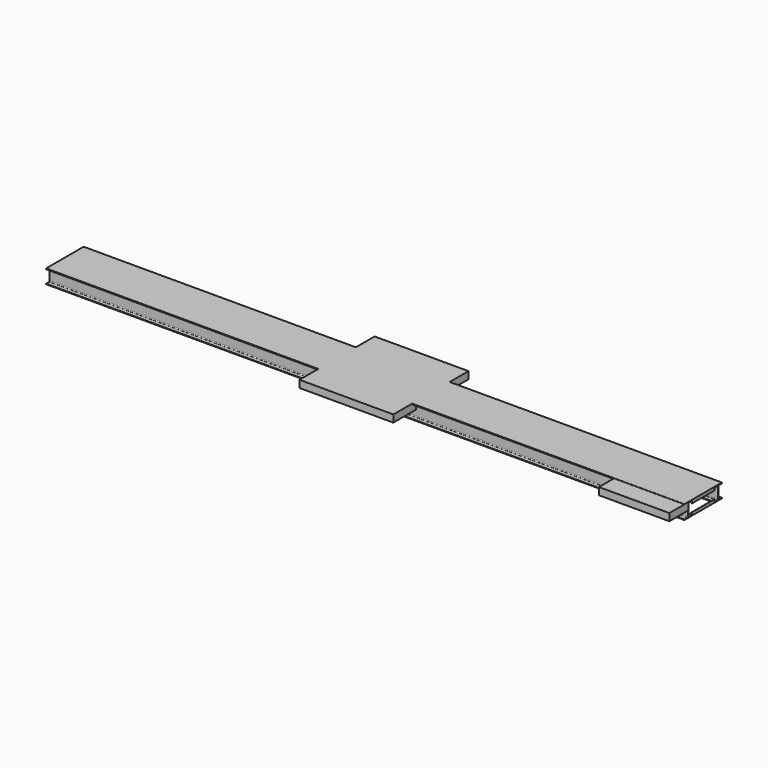
from build123d import *

# Parameters (mm, degrees)
EXTRUDE_DEPTH    = 6800
EXTRUDE002_DEPTH = 300
EXTRUDE001_DEPTH = 300
ARRAY_X_COUNT    = 3
ARRAY_X_PITCH    = 2000
EXTRUDE004_DEPTH = 300
ARRAY001_COUNT   = 2
SKETCH011_W      = 1500
SKETCH011_H      = 400
EXTRUDE008_DEPTH = 4.5
EXTRUDE003_DEPTH = 4.5


with BuildPart() as extrude_body:
    with BuildSketch(Plane(origin=(0, -400, 147), x_dir=(0, 1, 0), z_dir=(-1, 0, 0))):
        with BuildLine():
            Line((-100, 147), (-100, 135))
            Line((-100, 135), (-22, 135))
            ThreePointArc((-22, 135), (-9.272078, 129.727922), (-4, 117))
            Line((-4, 117), (-4, -117))
            ThreePointArc((-4, -117), (-9.272078, -129.727922), (-22, -135))
            Line((-22, -135), (-100, -135))
            Line((-100, -135), (-100, -147))
            Line((-100, -147), (100, -147))
            Line((100, -147), (100, -135))
            Line((100, -135), (22, -135))
            ThreePointArc((22, -135), (9.272078, -129.727922), (4, -117))
            Line((4, -117), (4, 117))
            ThreePointArc((4, 117), (9.272078, 129.727922), (22, 135))
            Line((22, 135), (100, 135))
            Line((100, 135), (100, 147))
            Line((100, 147), (-100, 147))
        make_face()
    extrude(amount=EXTRUDE_DEPTH, both=True)


with BuildPart() as extrude003:
    # AngleSteel → Extrude002 (new body, symmetric)
    with BuildSketch(Plane(origin=(-6781.901231, 0, 18.098769), x_dir=(1, 0, 0), z_dir=(0, 1, 0))):
        with BuildLine():
            Line((-18.098769, 18.098769), (-18.098769, -46.901231))
            Line((-18.098769, -46.901231), (-16.098769, -46.901231))
            ThreePointArc((-16.098769, -46.901231), (-13.270342, -45.729658), (-12.098769, -42.901231))
            Line((-12.098769, -42.901231), (-12.098769, 3.598769))
            ThreePointArc((-12.098769, 3.598769), (-9.609176, 9.609176), (-3.598769, 12.098769))
            Line((-3.598769, 12.098769), (42.901231, 12.098769))
            ThreePointArc((42.901231, 12.098769), (45.729658, 13.270342), (46.901231, 16.098769))
            Line((46.901231, 16.098769), (46.901231, 18.098769))
            Line((46.901231, 18.098769), (-18.098769, 18.098769))
        make_face()
    extrude(amount=EXTRUDE002_DEPTH, both=True)


with BuildPart() as array:
    # AngleSteel001 → Extrude001 (new body, symmetric)
    with BuildSketch(Plane(origin=(-6781.901231, 0, 275.901231), x_dir=(1, 0, 0), z_dir=(0, 1, 0))):
        with BuildLine():
            Line((-18.098769, -18.098769), (46.901231, -18.098769))
            Line((46.901231, -18.098769), (46.901231, -16.098769))
            ThreePointArc((46.901231, -16.098769), (45.729658, -13.270342), (42.901231, -12.098769))
            Line((42.901231, -12.098769), (-3.598769, -12.098769))
            ThreePointArc((-3.598769, -12.098769), (-9.609176, -9.609176), (-12.098769, -3.598769))
            Line((-12.098769, -3.598769), (-12.098769, 42.901231))
            ThreePointArc((-12.098769, 42.901231), (-13.270342, 45.729658), (-16.098769, 46.901231))
            Line((-16.098769, 46.901231), (-18.098769, 46.901231))
            Line((-18.098769, 46.901231), (-18.098769, -18.098769))
        make_face()
    extrude(amount=EXTRUDE001_DEPTH, both=True)

    # Compound: union Extrude003
    add(extrude003.part)

    # Array X: Array ×3


with BuildPart() as array_1:
    add(array.part)
    with Locations(*[(i * ARRAY_X_PITCH, 0, 0) for i in range(1, ARRAY_X_COUNT)]):
        add(array.part)


with BuildPart() as compound001:
    # Mirror: instance of Array
    add(array_1.part.mirror(Plane(origin=(0, 2000, 0), x_dir=(0, -1, 0), z_dir=(1, 0, 0))))

    # Compound001: union Array
    add(array_1.part)


with BuildPart() as sweep_body:
    # Sweep: sweep along a path in Sketch
    with BuildLine(Plane.XY) as sweep_path:
        Line((-1000, 1000), (-1000, -1000))
        Line((-1000, -1000), (1000, -1000))
        Line((1000, -1000), (1000, 1000))
        Line((1000, 1000), (-1000, 1000))
    # ChannelSteel → Sweep (sweep)
    with BuildSketch(Plane(origin=(-979.027946, 0, 75), x_dir=(1, 0, 0), z_dir=(0, 1, 0))):
        with BuildLine():
            Line((-20.972054, 75), (-20.972054, -75))
            Line((-20.972054, -75), (54.027946, -75))
            Line((54.027946, -75), (54.027946, -74.148564))
            ThreePointArc((54.027946, -74.148564), (52.714332, -70.770613), (49.463724, -69.167591))
            Line((49.463724, -69.167591), (-3.600497, -64.525073))
            ThreePointArc((-3.600497, -64.525073), (-11.223735, -61.903182), (-14.472054, -54.525073))
            Line((-14.472054, -54.525073), (-14.472054, 54.525073))
            ThreePointArc((-14.472054, 54.525073), (-11.223735, 61.903182), (-3.600497, 64.525073))
            Line((-3.600497, 64.525073), (49.463724, 69.167591))
            ThreePointArc((49.463724, 69.167591), (52.714332, 70.770613), (54.027946, 74.148564))
            Line((54.027946, 74.148564), (54.027946, 75))
            Line((54.027946, 75), (-20.972054, 75))
        make_face()
    sweep(path=sweep_path.line, is_frenet=True, transition=Transition.RIGHT)


with BuildPart() as sweep_body_1:
    # Sweep placement: moved
    add(sweep_body.part.moved(Location((0, 0, 144))))


with BuildPart() as extrude001:
    # Clone base: copy of Extrude body
    add(extrude_body.part)


with BuildPart() as extrude001_1:
    # Clone placement: moved
    add(extrude001.part.moved(Location((0, 800, 0))))


with BuildPart() as array001:
    # ChannelSteel001 → Extrude004 (new body, symmetric)
    with BuildSketch(Plane(origin=(270.972054, 0, 75), x_dir=(1, 0, 0), z_dir=(0, 1, 0))):
        with BuildLine():
            Line((-20.972054, 75), (-20.972054, -75))
            Line((-20.972054, -75), (54.027946, -75))
            Line((54.027946, -75), (54.027946, -74.148564))
            ThreePointArc((54.027946, -74.148564), (52.714332, -70.770613), (49.463724, -69.167591))
            Line((49.463724, -69.167591), (-3.600497, -64.525073))
            ThreePointArc((-3.600497, -64.525073), (-11.223735, -61.903182), (-14.472054, -54.525073))
            Line((-14.472054, -54.525073), (-14.472054, 54.525073))
            ThreePointArc((-14.472054, 54.525073), (-11.223735, 61.903182), (-3.600497, 64.525073))
            Line((-3.600497, 64.525073), (49.463724, 69.167591))
            ThreePointArc((49.463724, 69.167591), (52.714332, 70.770613), (54.027946, 74.148564))
            Line((54.027946, 74.148564), (54.027946, 75))
            Line((54.027946, 75), (-20.972054, 75))
        make_face()
    extrude(amount=EXTRUDE004_DEPTH, both=True)


with BuildPart() as array001_1:
    # Extrude004 placement: moved
    add(array001.part.moved(Location((0, 0, 144))))

    # Array001: Array001 ×2 about axis
    array001_axis = Axis((0, 0, 0), (0, 0, 1))


with BuildPart() as array001_2:
    add(array001_1.part)
    for i in range(1, ARRAY001_COUNT):
        add(array001_1.part.rotate(array001_axis, i * 360 / ARRAY001_COUNT))


with BuildPart() as extrude009:
    # Sketch011 → Extrude008 (new body)
    with BuildSketch(Plane.XY.offset(290)):
        with Locations((6050, -700)):
            Rectangle(SKETCH011_W, SKETCH011_H)
    extrude(amount=EXTRUDE008_DEPTH)


with BuildPart() as sweep003:
    # Sweep003: sweep along a path in Sketch010
    with BuildLine(Plane.XY.offset(294)) as sweep003_path:
        Line((5300, -400), (5300, -900))
        Line((5300, -900), (6800, -900))
        Line((6800, -900), (6800, -400))
    # ChannelSteel003 → Sweep003 (sweep)
    with BuildSketch(Plane(origin=(5320.972054, -800, 215), x_dir=(1, 0, 0), z_dir=(0, 1, 0))):
        with BuildLine():
            Line((-20.972054, 75), (-20.972054, -75))
            Line((-20.972054, -75), (54.027946, -75))
            Line((54.027946, -75), (54.027946, -74.148564))
            ThreePointArc((54.027946, -74.148564), (52.714332, -70.770613), (49.463724, -69.167591))
            Line((49.463724, -69.167591), (-3.600497, -64.525073))
            ThreePointArc((-3.600497, -64.525073), (-11.223735, -61.903182), (-14.472054, -54.525073))
            Line((-14.472054, -54.525073), (-14.472054, 54.525073))
            ThreePointArc((-14.472054, 54.525073), (-11.223735, 61.903182), (-3.600497, 64.525073))
            Line((-3.600497, 64.525073), (49.463724, 69.167591))
            ThreePointArc((49.463724, 69.167591), (52.714332, 70.770613), (54.027946, 74.148564))
            Line((54.027946, 74.148564), (54.027946, 75))
            Line((54.027946, 75), (-20.972054, 75))
        make_face()
    sweep(path=sweep003_path.line, is_frenet=True, transition=Transition.RIGHT)


with BuildPart() as fusion001:
    # Sketch001 (on Face8 of Extrude) → Extrude003 (new body)
    with BuildSketch(Plane.XY.offset(294)):
        Polygon((-6800, 500), (-1000, 500), (-1000, 1000), (1000, 1000), (1000, 500), (6800, 500), (6800, -500), (1000, -500), (1000, -1000), (-1000, -1000), (-1000, -500), (-6800, -500), align=None)
    extrude(amount=EXTRUDE003_DEPTH)

    # Fusion001: union Extrude body, Compound001, Sweep body, Extrude001, Array001, Extrude009, Sweep003
    add(extrude_body.part)
    add(compound001.part)
    add(sweep_body_1.part)
    add(extrude001_1.part)
    add(array001_2.part)
    add(extrude009.part)
    add(sweep003.part)


solid = fusion001.part
